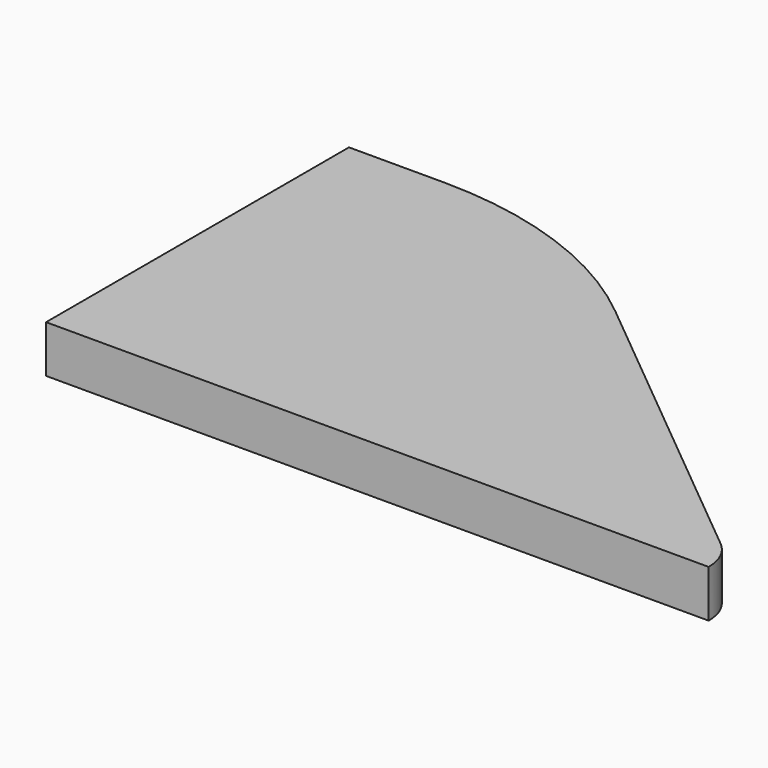
from build123d import *

# Parameters (mm, degrees)
PAD_DEPTH = 10


with BuildPart() as part:
    # Sketch → Pad (new body)
    with BuildSketch(Plane.XY):
        with BuildLine():
            Line((0, 0), (140, 0))
            ThreePointArc((140, 0), (139.04534, 4.264014), (136.363636, 7.713892))
            Line((70.909026, 61.711191), (136.363636, 7.713892))
            ThreePointArc((70.909026, 61.711191), (47.047216, 75.289097), (19.999983, 80))
            Line((0, 80), (19.999983, 80))
            Line((0, 0), (0, 80))
        make_face()
    extrude(amount=PAD_DEPTH)


solid = part.part
